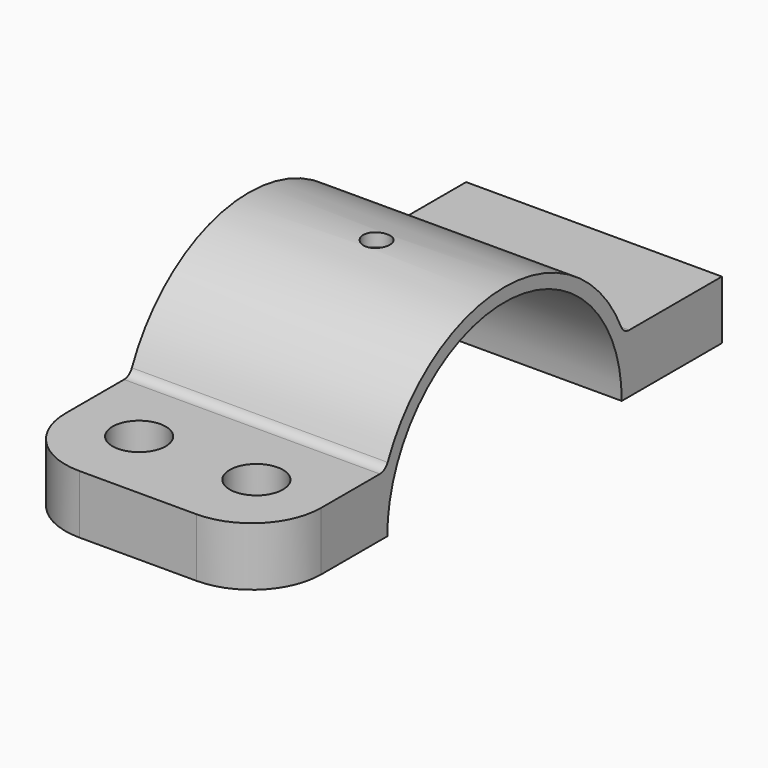
from build123d import *

# Parameters (mm, degrees)
F1_DEPTH = 24
F2_R     = 2.5
F2_R_2   = 5
F3_DEPTH = 30.001
F4_R     = 13
F5_R     = 2


with BuildPart() as f1:
    # F0 (on Right) → F1 (new body, symmetric)
    with BuildSketch(Plane.YZ):
        with BuildLine():
            Line((-56, 0), (-30, 0))
            ThreePointArc((-30, 0), (-29.4730143031, 5.5983415304), (-27.9105714739, 11))
            Line((-27.9105714739, 11), (-56, 11))
            Line((-56, 11), (-56, 0))
        make_face()
        with BuildLine():
            Line((-30, 0), (-27.5, 0))
            ThreePointArc((-27.5, 0), (-26.9199236056, 5.6185152015), (-25.2041663223, 11))
            Line((-25.2041663223, 11), (-27.9105714739, 11))
            ThreePointArc((-27.9105714739, 11), (-29.4730143031, 5.5983415304), (-30, 0))
        make_face()
        with BuildLine():
            ThreePointArc((-25.2041663223, 11), (0, 27.5), (25.2041663223, 11))
            Line((25.2041663223, 11), (27.9105714739, 11))
            ThreePointArc((27.9105714739, 11), (0, 30), (-27.9105714739, 11))
            Line((-27.9105714739, 11), (-25.2041663223, 11))
        make_face()
        with BuildLine():
            ThreePointArc((25.2041663223, 11), (26.9199236056, 5.6185152015), (27.5, 0))
            Line((27.5, 0), (30, 0))
            ThreePointArc((30, 0), (29.4730143031, 5.5983415304), (27.9105714739, 11))
            Line((27.9105714739, 11), (25.2041663223, 11))
        make_face()
        with BuildLine():
            ThreePointArc((27.9105714739, 11), (29.4730143031, 5.5983415304), (30, 0))
            Line((30, 0), (51, 0))
            Line((51, 0), (51, 11))
            Line((51, 11), (40, 11))
            Line((40, 11), (27.9105714739, 11))
        make_face()
        with BuildLine():
            ThreePointArc((27.9105714739, 11), (29.4730143031, 5.5983415304), (30, 0))
            Line((30, 0), (51, 0))
            Line((51, 0), (51, 11))
            Line((51, 11), (40, 11))
            Line((40, 11), (27.9105714739, 11))
        make_face()
    extrude(amount=F1_DEPTH, both=True)

    # F2 (on Top) → F3 (cut, through all)
    with BuildSketch(Plane.XY):
        Circle(F2_R)
        with Locations((-11, -41.955285737)):
            Circle(F2_R_2)
        with Locations((11, -41.955285737)):
            Circle(F2_R_2)
    extrude(amount=F3_DEPTH, mode=Mode.SUBTRACT)

    # F4
    f4_edges = [f1.edges().sort_by_distance(p)[0] for p in [
        (24, -56, 5.5),
        (-24, -56, 5.5),
    ]]
    fillet(f4_edges, radius=F4_R)

    # F5
    f5_edges = [f1.edges().sort_by_distance(p)[0] for p in [
        (0, -27.910571, 11),
        (0, 27.910571, 11),
    ]]
    fillet(f5_edges, radius=F5_R)


solid = f1.part
